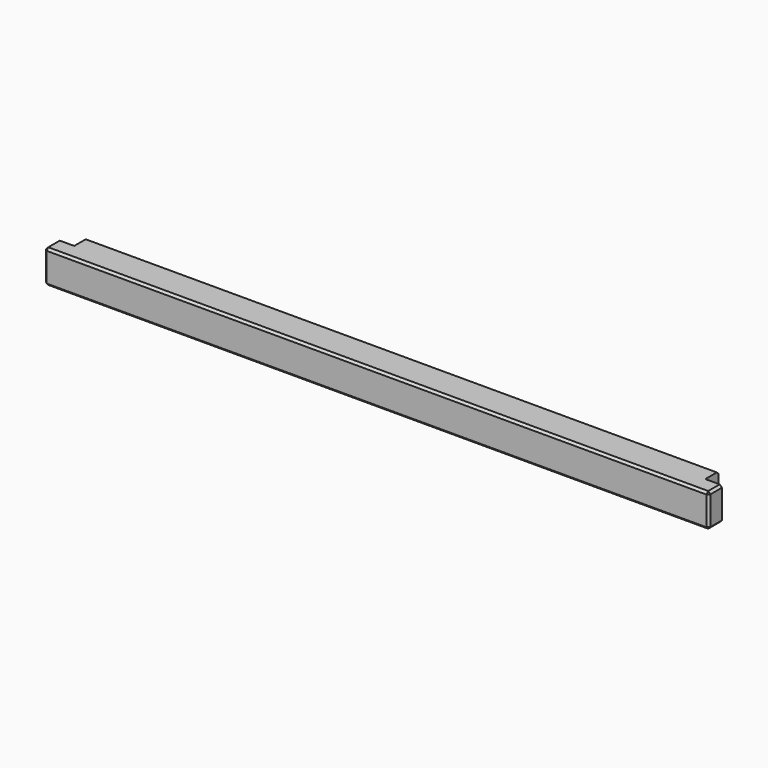
from build123d import *

# Parameters (mm, degrees)
F0_W     = 3000
F0_H     = 150
F1_DEPTH = 150
F2_SIZE  = 10
F3_W     = 65
F3_H     = 65
F4_DEPTH = 150.001
F5_W     = 65
F5_H     = 65
F6_DEPTH = 150.001


with BuildPart() as f1:
    # F0 (on Top) → F1 (new body)
    with BuildSketch(Plane.XY):
        Rectangle(F0_W, F0_H)
    extrude(amount=F1_DEPTH)

    # F2
    f2_edges = [f1.edges().sort_by_distance(p)[0] for p in [
        (-1500, -75, 75),
        (1500, -75, 75),
        (0, -75, 0),
        (0, -75, 150),
        (0, 75, 150),
        (-1500, 0, 150),
        (1500, 0, 150),
        (-1500, 75, 75),
        (-1500, 0, 0),
        (0, 75, 0),
        (1500, 0, 0),
        (1500, 75, 75),
    ]]
    chamfer(f2_edges, length=F2_SIZE)

    # F3 (on face) → F4 (cut, through all)
    with BuildSketch(Plane.XY.offset(150)):
        with Locations((-1457.5, 32.5)):
            Rectangle(F3_W, F3_H)
        Polygon((-1425, 65), (-1425, 75), (-1500, 75), (-1500, 0), (-1490, 0), (-1490, 65), align=None)
    extrude(amount=-F4_DEPTH, mode=Mode.SUBTRACT)

    # F5 (on face) → F6 (cut, through all)
    with BuildSketch(Plane.XY.offset(150)):
        Polygon((1500, 75), (1425, 75), (1425, 65), (1490, 65), (1490, 0), (1500, 0), align=None)
        with Locations((1457.5, 32.5)):
            Rectangle(F5_W, F5_H)
    extrude(amount=-F6_DEPTH, mode=Mode.SUBTRACT)


solid = f1.part
